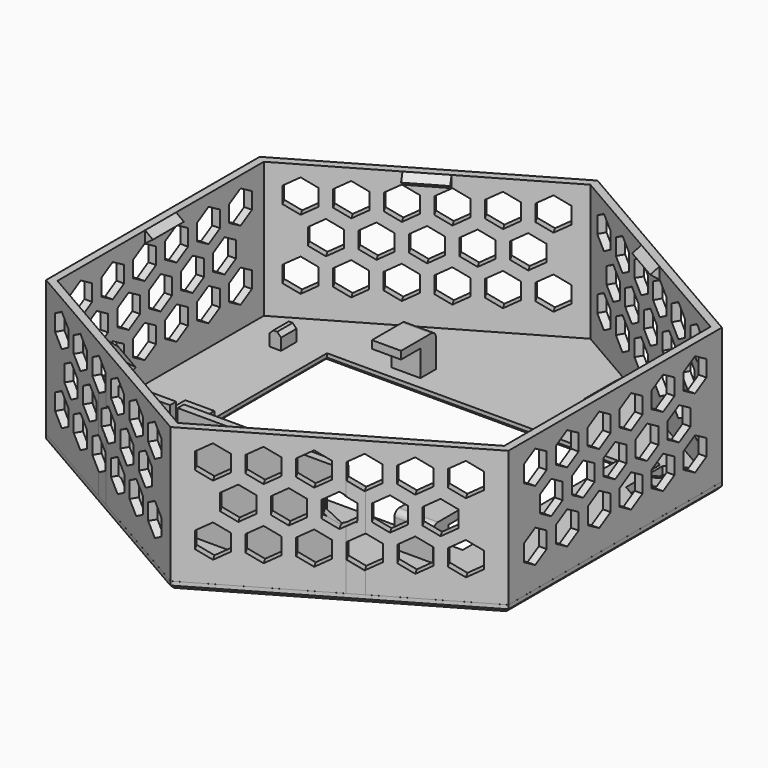
from build123d import *

# Parameters (mm, degrees)
SKETCH_W              = 75
SKETCH_H              = 50
PAD_DEPTH             = 2
CHAMFER_SIZE          = 1
SKETCH003_W           = 3
SKETCH003_H           = 5
PAD003_DEPTH          = 6
SKETCH006_W           = 7.5
SKETCH006_H           = 5
SKETCH006_W_2         = 10
PAD004_DEPTH          = 8.75
SKETCH007_W           = 7.5
SKETCH007_H           = 11.25
SKETCH007_W_2         = 10
SKETCH007_H_2         = 9.9
PAD005_DEPTH          = 2
PAD006_DEPTH          = 28
SKETCH009_W           = 2
SKETCH009_H           = 13
POCKET_DEPTH          = 2
POCKET001_DEPTH       = 2
CHAMFER001_SIZE       = 1
FILLET_R              = 1.5
POCKET002_DEPTH       = 5
POCKET003_DEPTH       = 5
SKETCH005_W           = 68.89
SKETCH005_H           = 35
PAD002_DEPTH          = 2
PAD007_DEPTH          = 5
POLARPATTERN_COUNT    = 6
POLARPATTERN001_COUNT = 6


with BuildPart() as front_plate:
    # Sketch → Pad (new body)
    with BuildSketch(Plane.XY):
        Polygon((0, 68.885), (59.6561599397, 34.4425), (59.6561599397, -34.4425), (0, -68.885), (-59.6561599397, -34.4425), (-59.6561599397, 34.4425), align=None)
        with Locations((0, 3.5)):
            Rectangle(SKETCH_W, SKETCH_H, mode=Mode.SUBTRACT)
    extrude(amount=PAD_DEPTH)

    # Chamfer
    chamfer_edges = [front_plate.edges().sort_by_distance(p)[0] for p in [
        (0, -21.5, 0),
        (37.5, 3.5, 0),
        (0, 28.5, 0),
        (-37.5, 3.5, 0),
        (-59.65616, 0, 0),
        (-29.82808, 51.66375, 0),
        (29.82808, 51.66375, 0),
        (59.65616, 0, 0),
        (29.82808, -51.66375, 0),
        (-29.82808, -51.66375, 0),
    ]]
    chamfer(chamfer_edges, length=CHAMFER_SIZE)

    # Sketch003 → Pad003 (join)
    with BuildSketch(Plane.XY):
        with Locations((-46.8761599397, 26)):
            Rectangle(SKETCH003_W, SKETCH003_H)
        with Locations((-46.8761599397, -19)):
            Rectangle(SKETCH003_W, SKETCH003_H)
    extrude(amount=PAD003_DEPTH)

    # Sketch006 → Pad004 (join)
    with BuildSketch(Plane.XY):
        with Locations((-19.75, 34.25)):
            Rectangle(SKETCH006_W, SKETCH006_H)
        with Locations((-32.75, -27.25)):
            Rectangle(SKETCH006_W, SKETCH006_H)
        with Locations((31.5, -27.25)):
            Rectangle(SKETCH006_W_2, SKETCH006_H)
    extrude(amount=PAD004_DEPTH)

    # Sketch007 (on Face52 of Pad004) → Pad005 (join)
    with BuildSketch(Plane.XY.offset(8.75)):
        with Locations((-19.75, 31.125)):
            Rectangle(SKETCH007_W, SKETCH007_H)
        with Locations((-32.75, -24.125)):
            Rectangle(SKETCH007_W, SKETCH007_H)
        with Locations((31.5, -24.8)):
            Rectangle(SKETCH007_W_2, SKETCH007_H_2)
    extrude(amount=PAD005_DEPTH)

    # Sketch008 (on Face4 of Pad005) → Pad006 (join)
    with BuildSketch(Plane.XY.offset(2)):
        Polygon((-30.9863889474, -50.995), (30.9863889474, -50.995), (34.4504905625, -48.995), (-34.4504905625, -48.995), align=None)
    extrude(amount=PAD006_DEPTH)

    # Sketch009 (on Face11 of Pad006) → Pocket (cut)
    with BuildSketch(Plane(origin=(0, -48.995, 0), x_dir=(-1, 0, 0), z_dir=(0, 1, 0))):
        with Locations((13.4504905625, 23.5)):
            Rectangle(SKETCH009_W, SKETCH009_H)
    extrude(amount=-POCKET_DEPTH, mode=Mode.SUBTRACT)

    # Sketch011 → Pocket001 (cut)
    with BuildSketch(Plane(origin=(0, 0, 0), x_dir=(1, 0, 0), z_dir=(0, 0, -1))):
        Polygon((50.6527404072, -17.8474789955), (50.6479649306, -23.1274768359), (46.0777404072, -25.7716114401), (46.0825158837, -20.4916135997), align=None)
        Polygon((55.5877404072, -26.3951497308), (51.0127404072, -29.031012967), (46.4377404072, -26.3951497308), (51.0127404072, -23.7592864946), align=None)
        Polygon((50.6527404072, -34.9428204662), (46.0825158837, -32.298685862), (46.0777404072, -27.0186880215), (50.6479649306, -29.6628226257), align=None)
        Polygon((40.7827404072, -34.9428204662), (40.7875158837, -29.6628226257), (45.3577404072, -27.0186880215), (45.3529649306, -32.298685862), align=None)
    extrude(amount=-POCKET001_DEPTH, mode=Mode.SUBTRACT)

    # Chamfer001
    chamfer001_edges = [front_plate.edges().sort_by_distance(p)[0] for p in [
        (-45.37616, 26, 6),
        (-48.37616, 26, 6),
        (-45.37616, -19, 6),
        (-48.37616, -19, 6),
    ]]
    chamfer(chamfer001_edges, length=CHAMFER001_SIZE)

    # Fillet
    fillet_edges = [front_plate.edges().sort_by_distance(p)[0] for p in [
        (-19.75, 36.75, 10.75),
        (31.5, -29.75, 10.75),
        (-32.75, -29.75, 10.75),
    ]]
    fillet(fillet_edges, radius=FILLET_R)

    # Sketch012 (on Face61 of Fillet) → Pocket002 (cut)
    with BuildSketch(Plane(origin=(29.8280799698, -51.66375, 0), x_dir=(0.8660254038, 0.5, 0), z_dir=(0.5, -0.8660254038, 0))):
        Polygon((5.1488481384, 33.8208139121), (1.4682401723, 31.6958139121), (1.4682401723, 27.4458139121), (5.1488481384, 25.3208139121), (8.8294561045, 27.4458139121), (8.8294561045, 31.6958139121), align=None)
        Polygon((0, 24.8088456285), (-3.6806079661, 22.6838456285), (-3.6806079661, 18.4338456285), (0, 16.3088456285), (3.6806079661, 18.4338456285), (3.6806079661, 22.6838456285), align=None)
        Polygon((5.1609443405, 15.8455555908), (1.4803363744, 13.7205555908), (1.4803363744, 9.4705555908), (5.1609443405, 7.3455555908), (8.8415523066, 9.4705555908), (8.8415523066, 13.7205555908), align=None)
    extrude(amount=-POCKET002_DEPTH, mode=Mode.SUBTRACT)

    # Sketch013 (on Face64 of Pocket002) → Pocket003 (cut)
    with BuildSketch(Plane(origin=(-29.8280799698, -51.66375, 0), x_dir=(0.8660254038, -0.5, 0), z_dir=(-0.5, -0.8660254038, 0))):
        Polygon((-5.1611495272, 33.8138759414), (-8.8417574933, 31.6888759414), (-8.8417574933, 27.4388759414), (-5.1611495272, 25.3138759414), (-1.4805415611, 27.4388759414), (-1.4805415611, 31.6888759414), align=None)
        Polygon((0, 24.8088456285), (-3.6806079661, 22.6838456285), (-3.6806079661, 18.4338456285), (0, 16.3088456285), (3.6806079661, 18.4338456285), (3.6806079661, 22.6838456285), align=None)
        Polygon((-5.1490533251, 15.8386176201), (-8.8296612912, 13.71361762), (-8.8296612912, 9.46361762), (-5.1490533251, 7.33861762), (-1.468445359, 9.4636176201), (-1.468445359, 13.7136176201), align=None)
    extrude(amount=-POCKET003_DEPTH, mode=Mode.SUBTRACT)


with BuildPart() as side:
    # Sketch005 → Pad002 (new body)
    with BuildSketch(Plane.YZ.offset(57.65)):
        with Locations((0, 17.5)):
            Rectangle(SKETCH005_W, SKETCH005_H)
        Polygon((-22.1005368923, 25.625), (-22.1005368922, 29.875), (-25.7811448584, 32), (-29.4617528245, 29.875), (-29.4617528245, 25.625), (-25.7811448584, 23.5), align=None, mode=Mode.SUBTRACT)
        Polygon((-11.7905392267, 25.6319379707), (-11.7905392267, 29.8819379707), (-15.4711471927, 32.0069379707), (-19.1517551588, 29.8819379707), (-19.1517551588, 25.6319379707), (-15.4711471927, 23.5069379707), align=None, mode=Mode.SUBTRACT)
        Polygon((-1.4805415611, 25.6388759414), (-1.4805415611, 29.8888759414), (-5.1611495272, 32.0138759414), (-8.8417574932, 29.8888759414), (-8.8417574932, 25.6388759414), (-5.1611495272, 23.5138759414), align=None, mode=Mode.SUBTRACT)
        Polygon((8.8294561045, 25.6458139121), (8.8294561045, 29.8958139121), (5.1488481384, 32.0208139121), (1.4682401724, 29.8958139121), (1.4682401724, 25.6458139121), (5.1488481384, 23.5208139121), align=None, mode=Mode.SUBTRACT)
        Polygon((19.1394537701, 25.6527518828), (19.1394537701, 29.9027518828), (15.458845804, 32.0277518828), (11.778237838, 29.9027518828), (11.778237838, 25.6527518828), (15.458845804, 23.5277518828), align=None, mode=Mode.SUBTRACT)
        Polygon((29.4494514357, 25.6596898535), (29.4494514357, 29.9096898535), (25.7688434696, 32.0346898535), (22.0882355035, 29.9096898535), (22.0882355035, 25.6596898535), (25.7688434696, 23.5346898535), align=None, mode=Mode.SUBTRACT)
        Polygon((-22.0884406901, 7.6497416785), (-22.0884406901, 11.8997416785), (-25.7690486562, 14.0247416785), (-29.4496566223, 11.8997416785), (-29.4496566223, 7.6497416785), (-25.7690486562, 5.5247416785), align=None, mode=Mode.SUBTRACT)
        Polygon((-11.7784430245, 7.6566796492), (-11.7784430245, 11.9066796492), (-15.4590509906, 14.0316796492), (-19.1396589567, 11.9066796492), (-19.1396589567, 7.6566796492), (-15.4590509906, 5.5316796492), align=None, mode=Mode.SUBTRACT)
        Polygon((-1.468445359, 7.6636176199), (-1.468445359, 11.9136176199), (-5.149053325, 14.0386176199), (-8.8296612911, 11.9136176199), (-8.8296612911, 7.6636176199), (-5.149053325, 5.5386176199), align=None, mode=Mode.SUBTRACT)
        Polygon((8.8415523066, 7.6705555906), (8.8415523066, 11.9205555906), (5.1609443406, 14.0455555906), (1.4803363745, 11.9205555906), (1.4803363745, 7.6705555906), (5.1609443406, 5.5455555906), align=None, mode=Mode.SUBTRACT)
        Polygon((19.1515499722, 7.6774935613), (19.1515499722, 11.9274935613), (15.4709420062, 14.0524935613), (11.7903340401, 11.9274935613), (11.7903340401, 7.6774935613), (15.4709420062, 5.5524935613), align=None, mode=Mode.SUBTRACT)
        Polygon((29.4615476378, 7.684431532), (29.4615476378, 11.934431532), (25.7809396717, 14.059431532), (22.1003317057, 11.934431532), (22.1003317057, 7.684431532), (25.7809396717, 5.559431532), align=None, mode=Mode.SUBTRACT)
        Polygon((-16.9393908665, 16.6407842071), (-16.9393908665, 20.8907842071), (-20.6199988326, 23.0157842071), (-24.3006067987, 20.8907842071), (-24.3006067987, 16.6407842071), (-20.6199988326, 14.5157842071), align=None, mode=Mode.SUBTRACT)
        Polygon((-6.6293914502, 16.6373149177), (-6.6293914502, 20.8873149177), (-10.3099994163, 23.0123149177), (-13.9906073824, 20.8873149177), (-13.9906073824, 16.6373149177), (-10.3099994163, 14.5123149177), align=None, mode=Mode.SUBTRACT)
        Polygon((3.6806079661, 16.6338456284), (3.6806079661, 20.8838456284), (0, 23.0088456284), (-3.6806079661, 20.8838456284), (-3.6806079661, 16.6338456284), (0, 14.5088456284), align=None, mode=Mode.SUBTRACT)
        Polygon((13.9906073824, 16.6303763391), (13.9906073824, 20.8803763391), (10.3099994163, 23.0053763391), (6.6293914502, 20.8803763391), (6.6293914502, 16.6303763391), (10.3099994163, 14.5053763391), align=None, mode=Mode.SUBTRACT)
        Polygon((24.3006067987, 16.6269070497), (24.3006067987, 20.8769070497), (20.6199988326, 23.0019070497), (16.9393908665, 20.8769070497), (16.9393908665, 16.6269070497), (20.6199988326, 14.5019070497), align=None, mode=Mode.SUBTRACT)
    pad002 = extrude(amount=PAD002_DEPTH)

    # Sketch010 → Pad007 (join, symmetric)
    with BuildSketch(Plane.XZ):
        Polygon((57.65, 35), (55.65, 33.5), (57.65, 32), align=None)
    pad007 = extrude(amount=PAD007_DEPTH, both=True)

    # PolarPattern: Pad002 ×6 about axis
    polarpattern_axis = Axis((0, 0, 0), (0, 0, 1))
    for i in range(1, POLARPATTERN_COUNT):
        add(pad002.rotate(polarpattern_axis, i * 360 / POLARPATTERN_COUNT))

    # PolarPattern001: Pad007 ×6 about axis
    polarpattern001_axis = Axis((0, 0, 0), (0, 0, 1))
    for i in range(1, POLARPATTERN001_COUNT):
        add(pad007.rotate(polarpattern001_axis, i * 360 / POLARPATTERN001_COUNT))


with BuildPart() as side_1:
    # Body002 placement: moved
    add(side.part.moved(Location((0, 0, 2))))


solid = Compound([front_plate.part, side_1.part])
